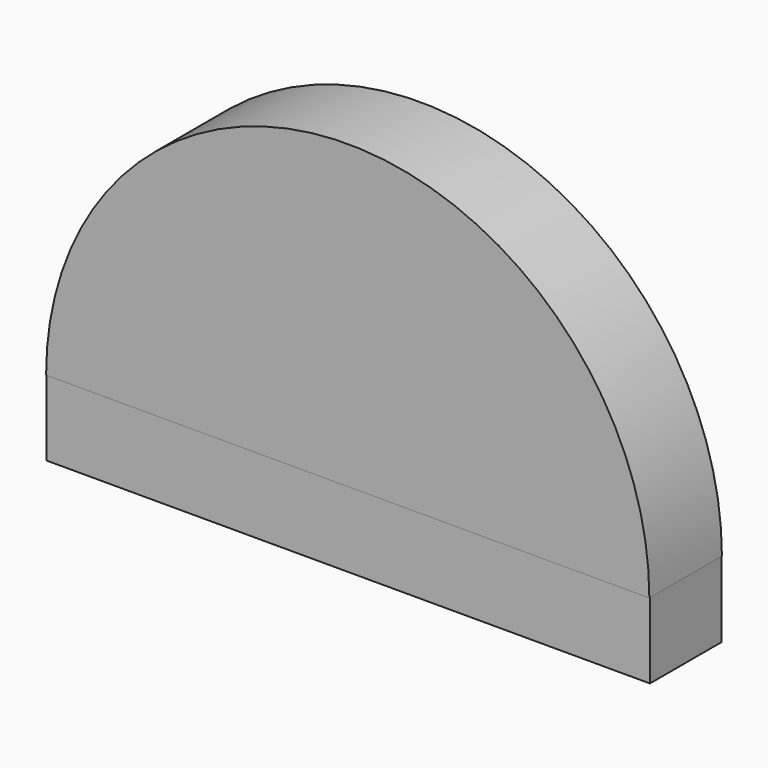
from build123d import *

# Parameters (mm, degrees)
F0_W     = 39.9
F0_H     = 5.9
F1_DEPTH = 5
F3_DEPTH = 3
F4_R     = 1.1
F5_DEPTH = 13


with BuildPart() as f1:
    # F0 (on Top) → F1 (new body)
    with BuildSketch(Plane.XY):
        Rectangle(F0_W, F0_H)
    extrude(amount=F1_DEPTH)

    # F2 (on Front) → F3 (join, symmetric)
    with BuildSketch(Plane.XZ):
        with BuildLine():
            Line((-19.95, 5), (19.95, 5))
            ThreePointArc((19.95, 5), (0, 24.95), (-19.95, 5))
        make_face()
    extrude(amount=F3_DEPTH, both=True)

    # F4 (on face) → F5 (cut)
    with BuildSketch(Plane(origin=(0, 0, 0), x_dir=(1, 0, 0), z_dir=(0, 0, -1))):
        with Locations((15, 0)):
            Circle(F4_R)
        with Locations((-15, 0)):
            Circle(F4_R)
    extrude(amount=-F5_DEPTH, mode=Mode.SUBTRACT)


solid = f1.part
